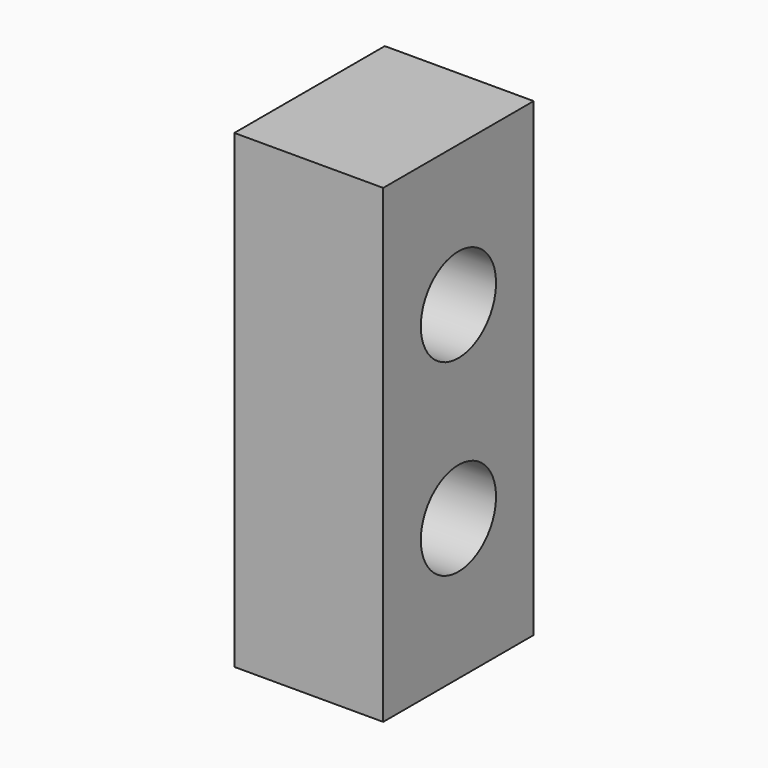
from build123d import *

# Parameters (mm, degrees)
F0_W     = 12
F0_H     = 30
F1_DEPTH = 9.5
F3_D     = 6
F4_D     = 6


with BuildPart() as f1:
    # F0 (on Right) → F1 (new body)
    with BuildSketch(Plane.YZ):
        with Locations((-6, 15)):
            Rectangle(F0_W, F0_H)
    extrude(amount=F1_DEPTH)

    # F3 (through all)
    with Locations(Plane.YZ.offset(9.5)):
        with Locations((-6, 9)):
            Hole(F3_D / 2)

    # F4 (through all)
    with Locations(Plane.YZ.offset(9.5)):
        with Locations((-6, 21)):
            Hole(F4_D / 2)


solid = f1.part
